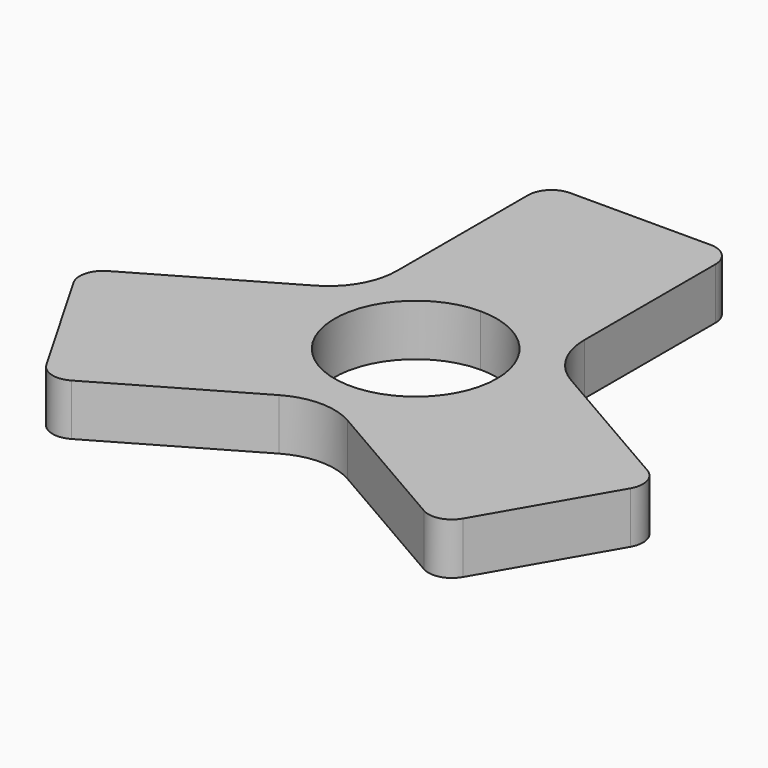
from build123d import *

# Parameters (mm, degrees)
F1_DEPTH = 3.4925
F3_R     = 9.525
F4_DEPTH = 4.191


with BuildPart() as f1:
    # F0 (on Top) → F1 (new body, symmetric)
    with BuildSketch(Plane.XY):
        with BuildLine():
            ThreePointArc((0, 11.00455), (-7.781392, -7.781392), (11.00455, 0))
            ThreePointArc((11.00455, 0), (7.781392, 7.781392), (0, 11.00455))
        make_face()
        with BuildLine():
            Line((12.7, 12.7), (0, 12.7))
            Line((0, 12.7), (-12.7, 12.7))
            ThreePointArc((-12.7, 12.7), (-13.945568, 8.051477), (-17.348523, 4.648523))
            Line((-17.348523, 4.648523), (-4.648523, -17.348523))
            ThreePointArc((-4.648523, -17.348523), (0, -16.102955), (4.648523, -17.348523))
            Line((4.648523, -17.348523), (17.348523, 4.648523))
            ThreePointArc((17.348523, 4.648523), (13.945568, 8.051477), (12.7, 12.7))
        make_face()
        with BuildLine():
            ThreePointArc((0, 11.00455), (7.781392, 7.781392), (11.00455, 0))
            ThreePointArc((11.00455, 0), (-7.781392, -7.781392), (0, 11.00455))
        make_face(mode=Mode.SUBTRACT)
        with BuildLine():
            Line((-12.7, 12.7), (0, 12.7))
            Line((0, 12.7), (12.7, 12.7))
            Line((12.7, 12.7), (12.7, 34.925))
            ThreePointArc((12.7, 34.925), (11.770064, 37.170064), (9.525, 38.1))
            Line((9.525, 38.1), (-9.525, 38.1))
            ThreePointArc((-9.525, 38.1), (-11.770064, 37.170064), (-12.7, 34.925))
            Line((-12.7, 34.925), (-12.7, 12.7))
        make_face()
        with BuildLine():
            Line((-4.648523, -17.348523), (-17.348523, 4.648523))
            Line((-17.348523, 4.648523), (-36.595937, -6.463977))
            ThreePointArc((-36.595937, -6.463977), (-38.075252, -8.391858), (-37.758068, -10.801108))
            Line((-37.758068, -10.801108), (-28.233068, -27.298892))
            ThreePointArc((-28.233068, -27.298892), (-26.305188, -28.778206), (-23.895937, -28.461023))
            Line((-23.895937, -28.461023), (-4.648523, -17.348523))
        make_face()
        with BuildLine():
            Line((36.595937, -6.463977), (17.348523, 4.648523))
            Line((17.348523, 4.648523), (4.648523, -17.348523))
            Line((4.648523, -17.348523), (23.895937, -28.461023))
            ThreePointArc((23.895937, -28.461023), (26.305188, -28.778206), (28.233068, -27.298892))
            Line((28.233068, -27.298892), (37.758068, -10.801108))
            ThreePointArc((37.758068, -10.801108), (38.075252, -8.391858), (36.595937, -6.463977))
        make_face()
    extrude(amount=F1_DEPTH, both=True)

    # F3 (on face) → F4 (cut)
    with BuildSketch(Plane(origin=(0, 0, -3.4925), x_dir=(1, 0, 0), z_dir=(0, 0, -1))):
        with Locations((0, -25.4)):
            Circle(F3_R)
        with Locations((21.997045, 12.7)):
            Circle(F3_R)
        with Locations((-21.997045, 12.7)):
            Circle(F3_R)
    extrude(amount=-F4_DEPTH, mode=Mode.SUBTRACT)


solid = f1.part
